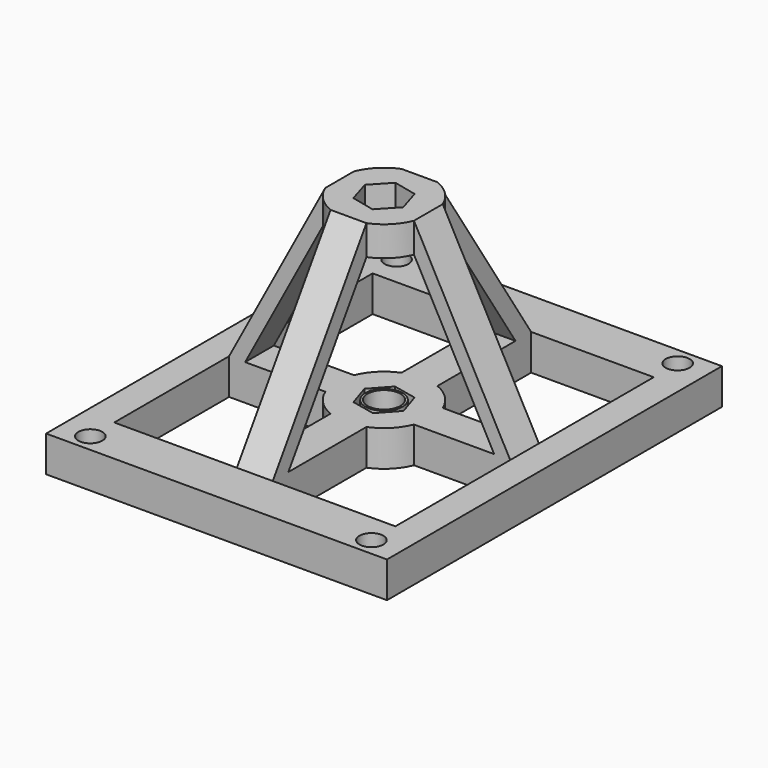
from build123d import *

# Parameters (mm, degrees)
F0_W      = 57
F0_H      = 70
F0_R      = 2
F1_DEPTH  = 6
F0_R_2    = 3.1100578844
F0_R_3    = 2.7519114789
F3_DEPTH  = 30
F5_DEPTH  = 5
F7_DEPTH  = 25
F9_DEPTH  = 25
F11_DEPTH = 25
F13_DEPTH = 25
F15_DEPTH = 25
F17_DEPTH = 25
F19_DEPTH = 25
F21_DEPTH = 25


with BuildPart() as f1:
    # F0 (on Top) → F1 (new body)
    with BuildSketch(Plane.XY):
        Rectangle(F0_W, F0_H)
        with Locations((-23.5, -32)):
            Circle(F0_R, mode=Mode.SUBTRACT)
        with BuildLine():
            Line((-3, -27), (-23.5, -27))
            Line((-23.5, -27), (-23.5, -3))
            Line((-23.5, -3), (-7.4161984871, -3))
            ThreePointArc((-7.4161984871, -3), (-5.6568542495, -5.6568542495), (-3, -7.4161984871))
            Line((-3, -7.4161984871), (-3, -27))
        make_face(mode=Mode.SUBTRACT)
        with Locations((23.5, -32)):
            Circle(F0_R, mode=Mode.SUBTRACT)
        with BuildLine():
            Line((23.5, -3), (23.5, -27))
            Line((23.5, -27), (3, -27))
            Line((3, -27), (3, -7.4161984871))
            ThreePointArc((3, -7.4161984871), (5.6568542495, -5.6568542495), (7.4161984871, -3))
            Line((7.4161984871, -3), (23.5, -3))
        make_face(mode=Mode.SUBTRACT)
        with BuildLine():
            Line((-23.5, 3), (-23.5, 27))
            Line((-23.5, 27), (-3, 27))
            Line((-3, 27), (-3, 7.4161984871))
            ThreePointArc((-3, 7.4161984871), (-5.6568542495, 5.6568542495), (-7.4161984871, 3))
            Line((-7.4161984871, 3), (-23.5, 3))
        make_face(mode=Mode.SUBTRACT)
        with Locations((-23.5, 32)):
            Circle(F0_R, mode=Mode.SUBTRACT)
        Polygon((-2.7080128015, -3), (-3.9520826121, 0.8452078799), (-1.2440698106, 3.8452078799), (2.7080128015, 3), (3, 2.0975173043), (3.9520826121, -0.8452078799), (3, -1.8999472943), (1.2440698106, -3.8452078799), align=None, mode=Mode.SUBTRACT)
        with BuildLine():
            Line((23.5, 3), (7.4161984871, 3))
            ThreePointArc((7.4161984871, 3), (5.6568542495, 5.6568542495), (3, 7.4161984871))
            Line((3, 7.4161984871), (3, 27))
            Line((3, 27), (23.5, 27))
            Line((23.5, 27), (23.5, 3))
        make_face(mode=Mode.SUBTRACT)
        with Locations((23.5, 32)):
            Circle(F0_R, mode=Mode.SUBTRACT)
    extrude(amount=F1_DEPTH)

    # F2 (on face) → F3 (join)
    with BuildSketch(Plane.XY.offset(6)):
        with BuildLine():
            ThreePointArc((3, -4), (0, -5), (-3, -4))
            Line((-3, -4), (-3, -7.4161984871))
            Line((-3, -7.4161984871), (-3, -27))
            Line((-3, -27), (3, -27))
            Line((3, -27), (3, -7.4161984871))
            Line((3, -7.4161984871), (3, -4))
        make_face()
        with BuildLine():
            Line((23.5, 3), (7.4161984871, 3))
            Line((7.4161984871, 3), (4, 3))
            ThreePointArc((4, 3), (4.7434164903, 1.5811388301), (5, 0))
            ThreePointArc((5, 0), (4.7434164903, -1.5811388301), (4, -3))
            Line((4, -3), (7.4161984871, -3))
            Line((7.4161984871, -3), (23.5, -3))
            Line((23.5, -3), (23.5, 3))
        make_face()
        with BuildLine():
            Line((3, 27), (-3, 27))
            Line((-3, 27), (-3, 7.4161984871))
            Line((-3, 7.4161984871), (-3, 4))
            ThreePointArc((-3, 4), (0, 5), (3, 4))
            Line((3, 4), (3, 7.4161984871))
            Line((3, 7.4161984871), (3, 27))
        make_face()
        with BuildLine():
            Line((-4, 3), (-7.4161984871, 3))
            Line((-7.4161984871, 3), (-23.5, 3))
            Line((-23.5, 3), (-23.5, -3))
            Line((-23.5, -3), (-7.4161984871, -3))
            Line((-7.4161984871, -3), (-4, -3))
            ThreePointArc((-4, -3), (-5, 0), (-4, 3))
        make_face()
    extrude(amount=F3_DEPTH)

    # F4 (on face) → F5 (join)
    with BuildSketch(Plane.XY.offset(36)):
        with BuildLine():
            ThreePointArc((-7.4161984871, -3), (1.5281380997, -7.85269342), (8, 0))
            ThreePointArc((8, 0), (1.5281380997, 7.85269342), (-7.4161984871, 3))
            Line((-7.4161984871, 3), (-4, 3))
            ThreePointArc((-4, 3), (-5, 0), (-4, -3))
            Line((-4, -3), (-7.4161984871, -3))
        make_face()
        Polygon((-2.7610653181, -2.951245778), (-3.9363864757, 0.915529818), (-1.1753211575, 3.866775596), (2.7610653181, 2.951245778), (3.9363864757, -0.915529818), (1.1753211575, -3.866775596), align=None, mode=Mode.SUBTRACT)
        with BuildLine():
            ThreePointArc((-7.4161984871, -3), (1.5281380997, -7.85269342), (8, 0))
            ThreePointArc((8, 0), (1.5281380997, 7.85269342), (-7.4161984871, 3))
            Line((-7.4161984871, 3), (-4, 3))
            ThreePointArc((-4, 3), (-5, 0), (-4, -3))
            Line((-4, -3), (-7.4161984871, -3))
        make_face()
        Polygon((-2.7610653181, -2.951245778), (-3.9363864757, 0.915529818), (-1.1753211575, 3.866775596), (2.7610653181, 2.951245778), (3.9363864757, -0.915529818), (1.1753211575, -3.866775596), align=None, mode=Mode.SUBTRACT)
    extrude(amount=-F5_DEPTH)

    # F6 (on face) → F7 (cut)
    with BuildSketch(Plane.YZ.offset(3)):
        Polygon((-27, 6), (-7.4161984871, 36), (-27, 36), align=None)
    extrude(amount=-F7_DEPTH, mode=Mode.SUBTRACT)

    # F8 (on face) → F9 (cut)
    with BuildSketch(Plane(origin=(0, 3, 0), x_dir=(-1, 0, 0), z_dir=(0, 1, 0))):
        Polygon((23.5, 36), (7.4161984871, 36), (23.5, 6), align=None)
    extrude(amount=-F9_DEPTH, mode=Mode.SUBTRACT)

    # F10 (on face) → F11 (cut)
    with BuildSketch(Plane(origin=(-3, 0, 0), x_dir=(0, -1, 0), z_dir=(-1, 0, 0))):
        Polygon((-27, 6), (-7.4161984871, 36), (-27, 36), align=None)
    extrude(amount=-F11_DEPTH, mode=Mode.SUBTRACT)

    # F12 (on face) → F13 (cut)
    with BuildSketch(Plane(origin=(0, 3, 0), x_dir=(-1, 0, 0), z_dir=(0, 1, 0))):
        Polygon((-23.5, 6), (-7.4161984871, 36), (-23.5, 36), align=None)
    extrude(amount=-F13_DEPTH, mode=Mode.SUBTRACT)

    # F14 (on face) → F15 (cut)
    with BuildSketch(Plane.YZ.offset(3)):
        Polygon((4, 31), (4, 6), (7.4161984871, 6), (23.7360330812, 6), (7.4161984871, 31), align=None)
    extrude(amount=-F15_DEPTH, mode=Mode.SUBTRACT)

    # F16 (on face) → F17 (cut)
    with BuildSketch(Plane(origin=(0, 3, 0), x_dir=(-1, 0, 0), z_dir=(0, 1, 0))):
        Polygon((4, 31), (4, 6), (7.4161984871, 6), (20.8193664145, 6), (7.4161984871, 31), align=None)
    extrude(amount=-F17_DEPTH, mode=Mode.SUBTRACT)

    # F18 (on face) → F19 (cut)
    with BuildSketch(Plane(origin=(-3, 0, 0), x_dir=(0, -1, 0), z_dir=(-1, 0, 0))):
        Polygon((4, 31), (4, 6), (23.7360330812, 6), (7.4161984871, 31), align=None)
    extrude(amount=-F19_DEPTH, mode=Mode.SUBTRACT)

    # F20 (on face) → F21 (cut)
    with BuildSketch(Plane(origin=(0, 3, 0), x_dir=(-1, 0, 0), z_dir=(0, 1, 0))):
        Polygon((-5.7080992435, 6), (-4, 6), (-4, 31), (-7.4161984871, 31), (-20.8193664145, 6), align=None)
    extrude(amount=-F21_DEPTH, mode=Mode.SUBTRACT)


with BuildPart() as f1b:
    # F0 (on Top) → F1, piece 2 (new body)
    with BuildSketch(Plane.XY):
        Circle(F0_R_2)
        Circle(F0_R_3, mode=Mode.SUBTRACT)
    extrude(amount=F1_DEPTH)


solid = Compound([f1.part, f1b.part])
